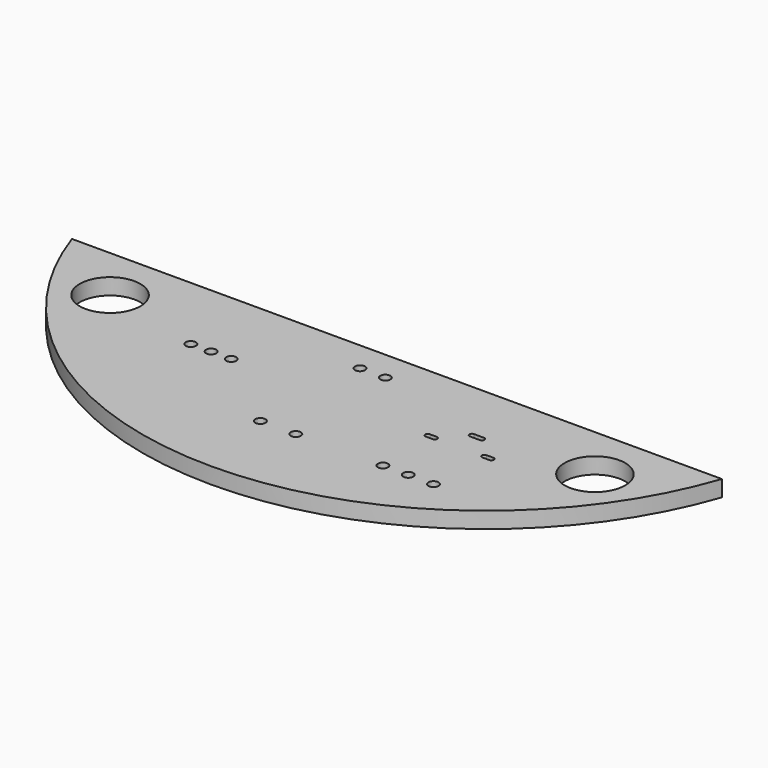
from build123d import *

# Parameters (mm, degrees)
F1_DEPTH  = 1.6
F2_R      = 3
F3_DEPTH  = 3
F6_R      = 0.5
F7_R      = 0.5
F8_R      = 0.5
F4_R      = 0.5
F9_DEPTH  = 4
F10_R     = 2.1
F11_DEPTH = 0.2


with BuildPart() as f1:
    # F0 (on Top) → F1 (new body)
    with BuildSketch(Plane.XY):
        with BuildLine():
            Line((70.716411, 29.285482), (6.37358, 29.285482))
            ThreePointArc((6.37358, 29.285482), (38.544995, 6.285482), (70.716411, 29.285482))
        make_face()
    extrude(amount=F1_DEPTH)

    # F2 (on face) → F3 (cut)
    with BuildSketch(Plane.XY.offset(1.6)):
        with Locations((14.544995, 23.785482)):
            Circle(F2_R)
        with Locations((62.544995, 23.785482)):
            Circle(F2_R)
    extrude(amount=-F3_DEPTH, mode=Mode.SUBTRACT)

    # F6 (on face) + F7 (on face) + F8 (on face) + F5 (on face) + F4 (on face) → F9 (cut)
    with BuildSketch(Plane.XY.offset(1.6)):
        with Locations((48.844995, 14.685482)):
            Circle(F6_R)
        with Locations((53.844995, 14.685482)):
            Circle(F6_R)
        with Locations((51.344995, 14.685482)):
            Circle(F6_R)
    with BuildSketch(Plane.XY.offset(1.6)):
        with Locations((37.294995, 26.285482)):
            Circle(F7_R)
        with Locations((39.794995, 26.285482)):
            Circle(F7_R)
    with BuildSketch(Plane.XY.offset(1.6)):
        with Locations((36.794995, 14.585482)):
            Circle(F8_R)
        with Locations((40.294995, 14.585482)):
            Circle(F8_R)
    with BuildSketch(Plane.XY.offset(1.6)):
        with BuildLine():
            ThreePointArc((51.044995, 23.185482), (50.794995, 22.935482), (51.044995, 22.685482))
            Line((51.044995, 22.685482), (52.044995, 22.685482))
            ThreePointArc((52.044995, 22.685482), (52.294995, 22.935482), (52.044995, 23.185482))
            Line((52.044995, 23.185482), (51.044995, 23.185482))
        make_face()
        with BuildLine():
            ThreePointArc((49.094995, 20.535482), (49.344995, 20.785482), (49.094995, 21.035482))
            Line((49.094995, 21.035482), (48.394995, 21.035482))
            ThreePointArc((48.394995, 21.035482), (48.144995, 20.785482), (48.394995, 20.535482))
            Line((48.394995, 20.535482), (49.094995, 20.535482))
        make_face()
        with BuildLine():
            Line((53.994995, 20.535482), (54.694995, 20.535482))
            ThreePointArc((54.694995, 20.535482), (54.944995, 20.785482), (54.694995, 21.035482))
            Line((54.694995, 21.035482), (53.994995, 21.035482))
            ThreePointArc((53.994995, 21.035482), (53.744995, 20.785482), (53.994995, 20.535482))
        make_face()
    with BuildSketch(Plane.XY.offset(1.6)):
        with Locations((24.544995, 21.285482)):
            Circle(F4_R)
        with Locations((26.544995, 21.285482)):
            Circle(F4_R)
        with Locations((28.544995, 21.285482)):
            Circle(F4_R)
    extrude(amount=-F9_DEPTH, mode=Mode.SUBTRACT)

    # F10 (on face) → F11 (cut)
    with BuildSketch(Plane(origin=(0, 0, 0), x_dir=(1, 0, 0), z_dir=(0, 0, -1))):
        with Locations((62.544995, -23.785482)):
            Circle(F10_R)
        with Locations((14.544995, -23.785482)):
            Circle(F10_R)
    extrude(amount=-F11_DEPTH, mode=Mode.SUBTRACT)


solid = f1.part
